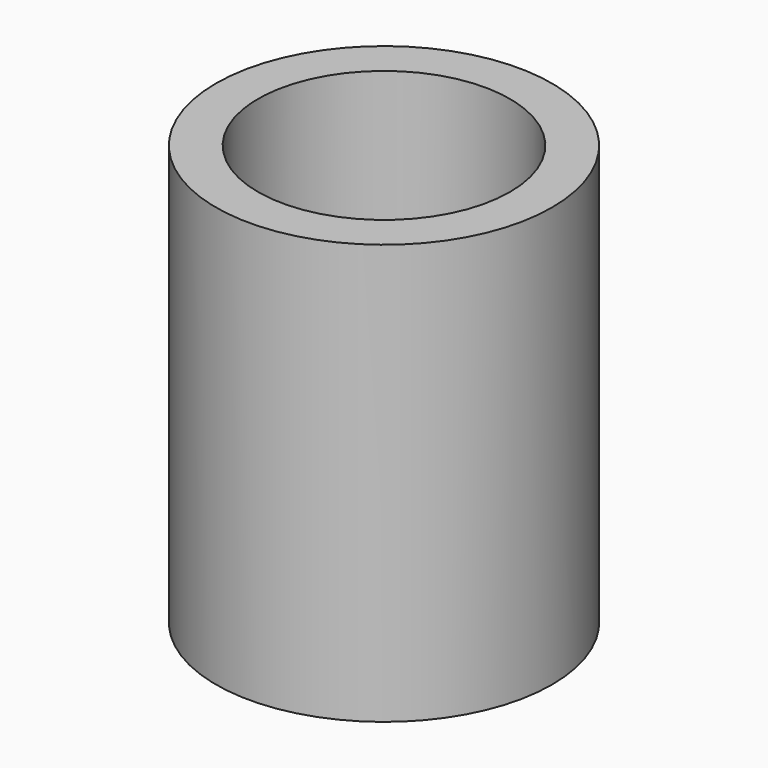
from build123d import *

# Parameters (mm, degrees)
CYLINDER003_R     = 1.5
CYLINDER003_DEPTH = 5
CYLINDER002_R     = 2
CYLINDER002_DEPTH = 5


with BuildPart() as cylinderouter001:
    # Cylinder003 → Cylinder003 (new body)
    with BuildSketch(Plane(origin=(8, -26, -23), x_dir=(1, 0, 0), z_dir=(0, 0, 1))):
        Circle(CYLINDER003_R)
    extrude(amount=CYLINDER003_DEPTH)


with BuildPart() as obj1:
    # Cylinder002 → Cylinder002 (new body)
    with BuildSketch(Plane(origin=(8, -26, -23), x_dir=(1, 0, 0), z_dir=(0, 0, 1))):
        Circle(CYLINDER002_R)
    extrude(amount=CYLINDER002_DEPTH)

    # Cut002: cut CylinderOuter001
    add(cylinderouter001.part, mode=Mode.SUBTRACT)


with BuildPart() as obj1_1:
    # Cut002 placement: moved
    add(obj1.part.moved(Location((0, -24, 0))))


solid = obj1_1.part
